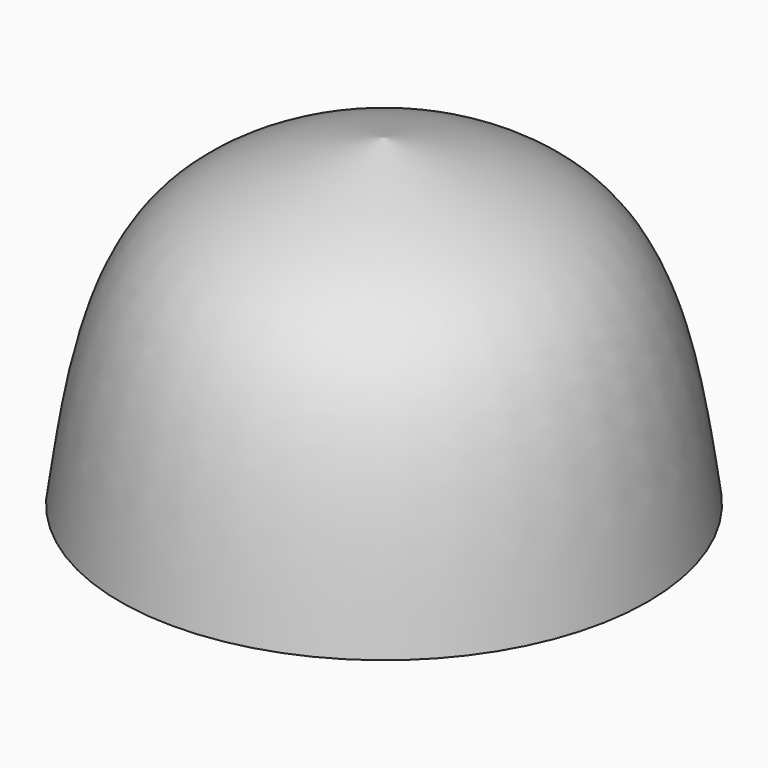
from build123d import *

# Parameters (mm, degrees)
F2_SCALE = 0.8


with BuildPart() as f1:
    # F0 (on Front) → F1 (revolve)
    with BuildSketch(Plane.XZ):
        with BuildLine():
            Line((-36.83, 0), (0, 0))
            Line((0, 0), (0, 45.0893542735))
            add(Edge.make_bspline(
                [(-36.83, 0), (-35.0922382346, 12.7007252452), (-31.7511328979, 37.11975767), (-10.2959856113, 42.5050417004), (0, 45.0893542735)],
                knots=[0, 0, 0, 0, 0.520115827, 1, 1, 1, 1], degree=3))
        make_face()
    revolve(axis=Axis((0, 0, 22.5446771367), (0, 0, -1)))


with BuildPart() as f1_1:
    # F2: moved
    add(f1.part.scale(F2_SCALE))


solid = f1_1.part
